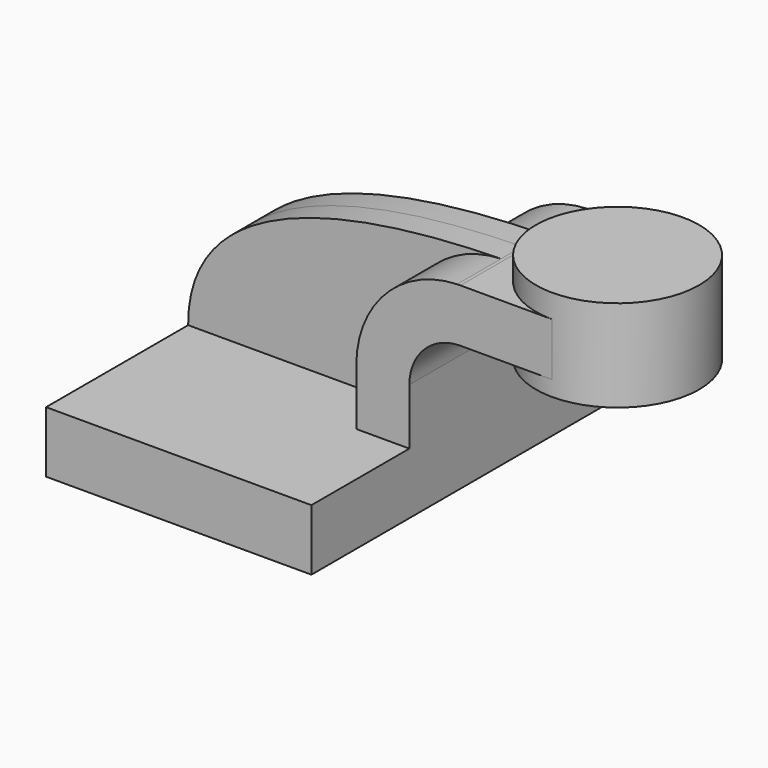
from build123d import *

# Parameters (mm, degrees)
F1_DEPTH = 63.5
F0_W     = 25.4
F0_H     = 16.5099985898
F2_DEPTH = 25.4
F3_DEPTH = 8.255


with BuildPart() as f1:
    # F0 (on Front) → F1 (new body, symmetric)
    with BuildSketch(Plane.XZ):
        Polygon((24.7650014102, 9.525), (-41.275, 9.525), (-41.275, -9.525), (41.275, -9.525), (41.275, 9.525), align=None)
    extrude(amount=F1_DEPTH, both=True)

    # F0 (on Front) → F2 (join, symmetric)
    with BuildSketch(Plane.XZ):
        with BuildLine():
            Line((24.7650014102, 27.0002), (24.7650014102, 9.525))
            Line((24.7650014102, 9.525), (41.275, 9.525))
            Line((41.275, 9.525), (41.275, 27.0002))
            ThreePointArc((41.275, 27.0002), (45.9246798487, 38.2255201513), (57.15, 42.8752))
            Line((57.15, 42.8752), (60.325, 42.8752))
            Line((60.325, 42.8752), (60.325, 59.3851985898))
            Line((60.325, 59.3851985898), (57.15, 59.3851985898))
            add(Edge.make_bspline(
                [(56.1071182256, 59.3684024719), (56.4564666589, 59.3745204877), (56.8041138662, 59.3801120386), (57.15, 59.3851985898)],
                knots=[109.340800828, 109.340800828, 109.340800828, 109.340800828, 110.3336758583, 110.3336758583, 110.3336758583, 110.3336758583], degree=3))
            ThreePointArc((56.1071182256, 59.3684024719), (33.8845550392, 49.5281205528), (24.7650014102, 27.0002))
        make_face()
        with Locations((73.025, 51.1301992949)):
            Rectangle(F0_W, F0_H)
    extrude(amount=F2_DEPTH, both=True)

    # F0 (on Front) → F3 (join, symmetric)
    with BuildSketch(Plane.XZ):
        with BuildLine():
            add(Edge.make_bspline(
                [(-41.275, 9.525), (-41.4689933248, 51.6361419003), (17.6349678521, 58.6946532825), (56.1071182256, 59.3684024719)],
                knots=[0, 0, 0, 0, 109.340800828, 109.340800828, 109.340800828, 109.340800828], degree=3))
            Line((-41.275, 9.525), (24.7650014102, 9.525))
            Line((24.7650014102, 9.525), (24.7650014102, 27.0002))
            ThreePointArc((24.7650014102, 27.0002), (33.8845550392, 49.5281205528), (56.1071182256, 59.3684024719))
        make_face()
    extrude(amount=F3_DEPTH, both=True)

    # F0 (on Front) → F4 (revolve)
    with BuildSketch(Plane.XZ):
        Polygon((85.725, 66.675), (85.725, 59.3851985898), (85.725, 42.8752), (85.725, 38.1), (111.125, 38.1), (111.125, 66.675), align=None)
    revolve(axis=Axis((85.725, 0, 52.3875), (0, 0, 1)))


solid = f1.part
